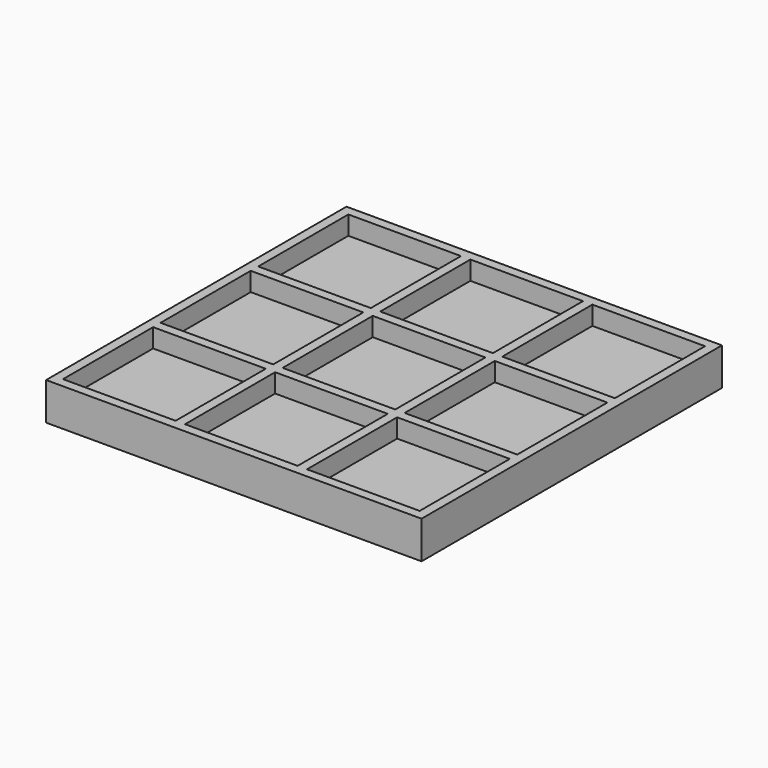
from build123d import *

# Parameters (mm, degrees)
F0_W     = 1000
F0_H     = 1000
F1_DEPTH = 100
F2_W     = 300
F2_H     = 300
F3_DEPTH = 50


with BuildPart() as f1:
    # F0 (on Top) → F1 (new body)
    with BuildSketch(Plane.XY):
        Rectangle(F0_W, F0_H)
    extrude(amount=F1_DEPTH)

    # F2 (on face) → F3 (cut)
    with BuildSketch(Plane.XY.offset(100)):
        with Locations((-325, 325)):
            Rectangle(F2_W, F2_H)
        with Locations((0, 325)):
            Rectangle(F2_W, F2_H)
        with Locations((325, 325)):
            Rectangle(F2_W, F2_H)
        with Locations((325, 0)):
            Rectangle(F2_W, F2_H)
        Rectangle(F2_W, F2_H)
        with Locations((-325, 0)):
            Rectangle(F2_W, F2_H)
        with Locations((-325, -325)):
            Rectangle(F2_W, F2_H)
        with Locations((0, -325)):
            Rectangle(F2_W, F2_H)
        with Locations((325, -325)):
            Rectangle(F2_W, F2_H)
    extrude(amount=-F3_DEPTH, mode=Mode.SUBTRACT)


solid = f1.part
